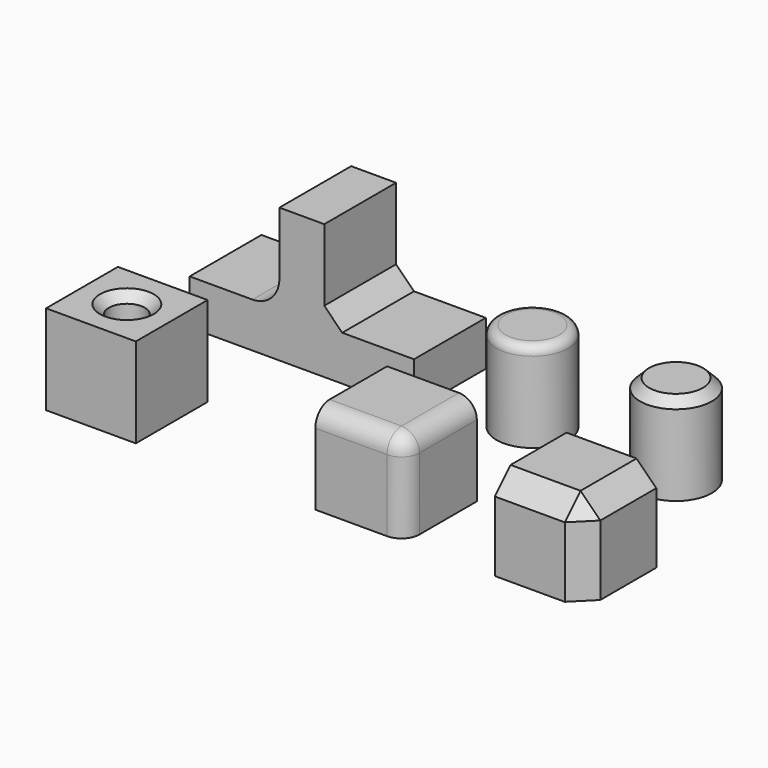
from build123d import *

# Parameters (mm, degrees)
CYLINDER_R        = 2
CYLINDER_DEPTH    = 10
BOX_W             = 10
BOX_H             = 10
BOX_DEPTH         = 10
CHAMFER_SIZE      = 1
BOX001_W          = 10
BOX001_H          = 10
BOX001_DEPTH      = 10
CHAMFER001_SIZE   = 2
FILLET_R          = 2
BOX005_W          = 10
BOX005_H          = 10
BOX005_DEPTH      = 10
CHAMFER002_SIZE   = 2.2
CYLINDER002_R     = 4
CYLINDER002_DEPTH = 10
CHAMFER003_SIZE   = 1
CYLINDER001_R     = 4
CYLINDER001_DEPTH = 10
FILLET001_R       = 1
BOX004_W          = 10
BOX004_H          = 10
BOX004_DEPTH      = 10
BOX003_W          = 10
BOX003_H          = 10
BOX003_DEPTH      = 10
BOX002_W          = 25
BOX002_H          = 10
BOX002_DEPTH      = 15
CHAMFER004_SIZE   = 2
FILLET002_R       = 3


with BuildPart() as cylinder:
    # Cylinder → Cylinder (new body)
    with BuildSketch(Plane(origin=(5, 5, 0), x_dir=(1, 0, 0), z_dir=(0, 0, 1))):
        Circle(CYLINDER_R)
    extrude(amount=CYLINDER_DEPTH)


with BuildPart() as chamfer_body:
    # Box → Box (new body)
    with BuildSketch(Plane.XY):
        with Locations((5, 5)):
            Rectangle(BOX_W, BOX_H)
    extrude(amount=BOX_DEPTH)

    # Cut: cut Cylinder
    add(cylinder.part, mode=Mode.SUBTRACT)

    # Chamfer
    chamfer_edges = [chamfer_body.edges().sort_by_distance(p)[0] for p in [
        (3, 5, 10),
    ]]
    chamfer(chamfer_edges, length=CHAMFER_SIZE)


with BuildPart() as cube001:
    # Box001 → Box001 (new body)
    with BuildSketch(Plane(origin=(30, 0, 0), x_dir=(1, 0, 0), z_dir=(0, 0, 1))):
        with Locations((5, 5)):
            Rectangle(BOX001_W, BOX001_H)
    extrude(amount=BOX001_DEPTH)


with BuildPart() as chamfer001:
    # Chamfer001 base: copy of Cube001
    add(cube001.part)

    # Chamfer001
    chamfer001_edges = [chamfer001.edges().sort_by_distance(p)[0] for p in [
        (40, 0, 5),
        (40, 5, 10),
        (35, 0, 10),
    ]]
    chamfer(chamfer001_edges, length=CHAMFER001_SIZE)


with BuildPart() as fillet_body:
    # Fillet base: copy of Cube001
    add(cube001.part)

    # Fillet
    fillet_edges = [fillet_body.edges().sort_by_distance(p)[0] for p in [
        (40, 0, 5),
        (40, 5, 10),
        (35, 0, 10),
    ]]
    fillet(fillet_edges, radius=FILLET_R)


with BuildPart() as chamfer002:
    # Box005 → Box005 (new body)
    with BuildSketch(Plane(origin=(50, 0, 0), x_dir=(1, 0, 0), z_dir=(0, 0, 1))):
        with Locations((5, 5)):
            Rectangle(BOX005_W, BOX005_H)
    extrude(amount=BOX005_DEPTH)

    # Chamfer002
    chamfer002_edges = [chamfer002.edges().sort_by_distance(p)[0] for p in [
        (60, 0, 5),
        (60, 5, 10),
        (55, 0, 10),
    ]]
    chamfer(chamfer002_edges, length=CHAMFER002_SIZE)


with BuildPart() as chamfer003:
    # Cylinder002 → Cylinder002 (new body)
    with BuildSketch(Plane(origin=(51, 24, 0), x_dir=(1, 0, 0), z_dir=(0, 0, 1))):
        Circle(CYLINDER002_R)
    extrude(amount=CYLINDER002_DEPTH)

    # Chamfer003
    chamfer003_edges = [chamfer003.edges().sort_by_distance(p)[0] for p in [
        (47, 24, 10),
    ]]
    chamfer(chamfer003_edges, length=CHAMFER003_SIZE)


with BuildPart() as fillet001:
    # Cylinder001 → Cylinder001 (new body)
    with BuildSketch(Plane(origin=(35, 24, 0), x_dir=(1, 0, 0), z_dir=(0, 0, 1))):
        Circle(CYLINDER001_R)
    extrude(amount=CYLINDER001_DEPTH)

    # Fillet001
    fillet001_edges = [fillet001.edges().sort_by_distance(p)[0] for p in [
        (31, 24, 10),
    ]]
    fillet(fillet001_edges, radius=FILLET001_R)


with BuildPart() as cube004:
    # Box004 → Box004 (new body)
    with BuildSketch(Plane(origin=(0, 20, 5), x_dir=(1, 0, 0), z_dir=(0, 0, 1))):
        with Locations((5, 5)):
            Rectangle(BOX004_W, BOX004_H)
    extrude(amount=BOX004_DEPTH)


with BuildPart() as cube003:
    # Box003 → Box003 (new body)
    with BuildSketch(Plane(origin=(15, 20, 5), x_dir=(1, 0, 0), z_dir=(0, 0, 1))):
        with Locations((5, 5)):
            Rectangle(BOX003_W, BOX003_H)
    extrude(amount=BOX003_DEPTH)


with BuildPart() as fillet002:
    # Box002 → Box002 (new body)
    with BuildSketch(Plane(origin=(0, 20, 0), x_dir=(1, 0, 0), z_dir=(0, 0, 1))):
        with Locations((12.5, 5)):
            Rectangle(BOX002_W, BOX002_H)
    extrude(amount=BOX002_DEPTH)

    # Cut001: cut Cube003
    add(cube003.part, mode=Mode.SUBTRACT)

    # Cut002: cut Cube004
    add(cube004.part, mode=Mode.SUBTRACT)

    # Chamfer004
    chamfer004_edges = [fillet002.edges().sort_by_distance(p)[0] for p in [
        (15, 25, 5),
    ]]
    chamfer(chamfer004_edges, length=CHAMFER004_SIZE)

    # Fillet002
    fillet002_edges = [fillet002.edges().sort_by_distance(p)[0] for p in [
        (10, 25, 5),
    ]]
    fillet(fillet002_edges, radius=FILLET002_R)


solid = Compound([chamfer_body.part, chamfer001.part, fillet_body.part, chamfer002.part, chamfer003.part, fillet001.part, fillet002.part])
